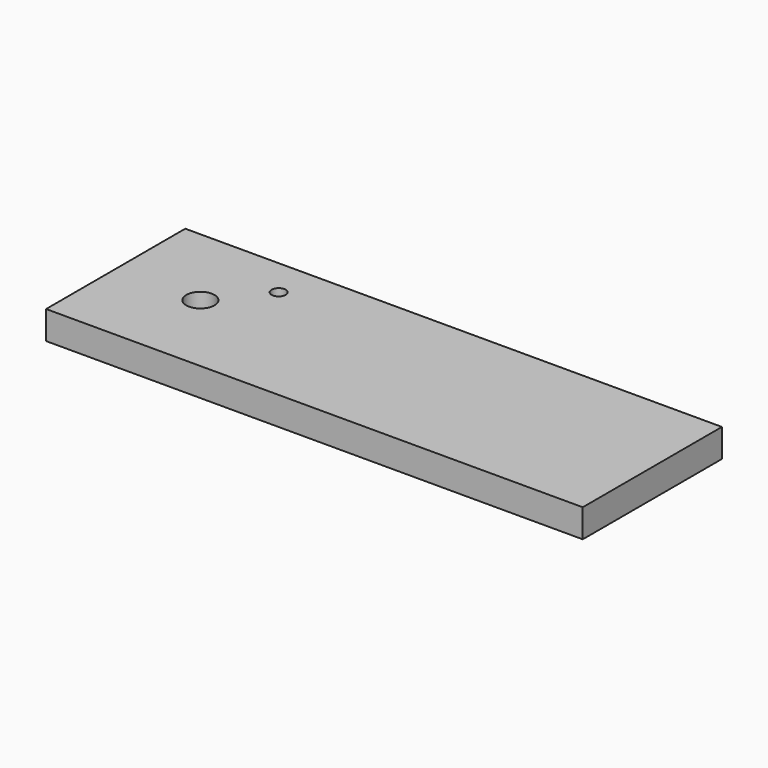
from build123d import *

# Parameters (mm, degrees)
F0_R     = 1.5875
F1_DEPTH = 6.35


with BuildPart() as f1:
    # F0 (on Top) → F1 (new body)
    with BuildSketch(Plane.XY):
        with BuildLine():
            Line((60.325, -19.558), (60.325, 0))
            Line((60.325, 0), (-38.1, 0))
            ThreePointArc((-38.1, 0), (-41.275, -3.175), (-44.45, 0))
            Line((-44.45, 0), (-60.325, 0))
            Line((-60.325, 0), (-60.325, -19.558))
            Line((-60.325, -19.558), (60.325, -19.558))
        make_face()
        with BuildLine():
            Line((60.325, 0), (60.325, 19.558))
            Line((60.325, 19.558), (-60.325, 19.558))
            Line((-60.325, 19.558), (-60.325, 0))
            Line((-60.325, 0), (-44.45, 0))
            ThreePointArc((-44.45, 0), (-41.275, 3.175), (-38.1, 0))
            Line((-38.1, 0), (60.325, 0))
        make_face()
        with Locations((-32.4104, 10.922)):
            Circle(F0_R, mode=Mode.SUBTRACT)
    extrude(amount=F1_DEPTH)


solid = f1.part
